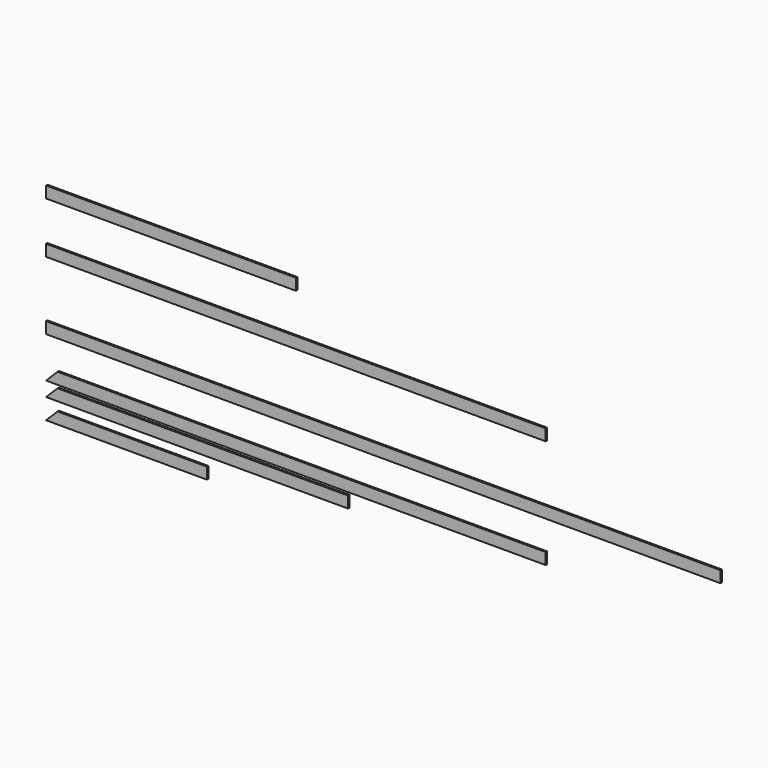
from build123d import *

# Parameters (mm, degrees)
F0_W      = 6096
F0_H      = 139.7
F1_DEPTH  = 20.828
F2_W      = 3048
F2_H      = 139.7
F3_DEPTH  = 20.828
F4_W      = 8229.6
F4_H      = 139.7
F5_DEPTH  = 20.828
F7_DEPTH  = 20.828
F9_DEPTH  = 20.828
F11_DEPTH = 20.828


with BuildPart() as f1:
    # F0 (on Front) → F1 (new body)
    with BuildSketch(Plane.XZ):
        with Locations((3048, 69.85)):
            Rectangle(F0_W, F0_H)
    extrude(amount=F1_DEPTH)


with BuildPart() as f3:
    # F2 (on Front) → F3 (new body)
    with BuildSketch(Plane.XZ):
        with Locations((1524, 696.359217)):
            Rectangle(F2_W, F2_H)
    extrude(amount=F3_DEPTH)


with BuildPart() as f5:
    # F4 (on Front) → F5 (new body)
    with BuildSketch(Plane.XZ):
        with Locations((4114.8, -760.54844)):
            Rectangle(F4_W, F4_H)
    extrude(amount=F5_DEPTH)


with BuildPart() as f7:
    # F6 (on Front) → F7 (new body)
    with BuildSketch(Plane.XZ):
        Polygon((6096, -1189.366277), (139.7, -1189.366277), (0, -1329.066277), (6096, -1329.066277), align=None)
    extrude(amount=F7_DEPTH)


with BuildPart() as f9:
    # F8 (on Front) → F9 (new body)
    with BuildSketch(Plane.XZ):
        Polygon((1962.15, -1615.752752), (139.7, -1615.752752), (0, -1755.452752), (1962.15, -1755.452752), align=None)
    extrude(amount=F9_DEPTH)


with BuildPart() as f11:
    # F10 (on Front) → F11 (new body)
    with BuildSketch(Plane.XZ):
        Polygon((3683, -1366.475518), (139.7, -1366.475518), (0, -1506.175518), (3683, -1506.175518), align=None)
    extrude(amount=F11_DEPTH)


solid = Compound([f1.part, f3.part, f5.part, f7.part, f9.part, f11.part])
